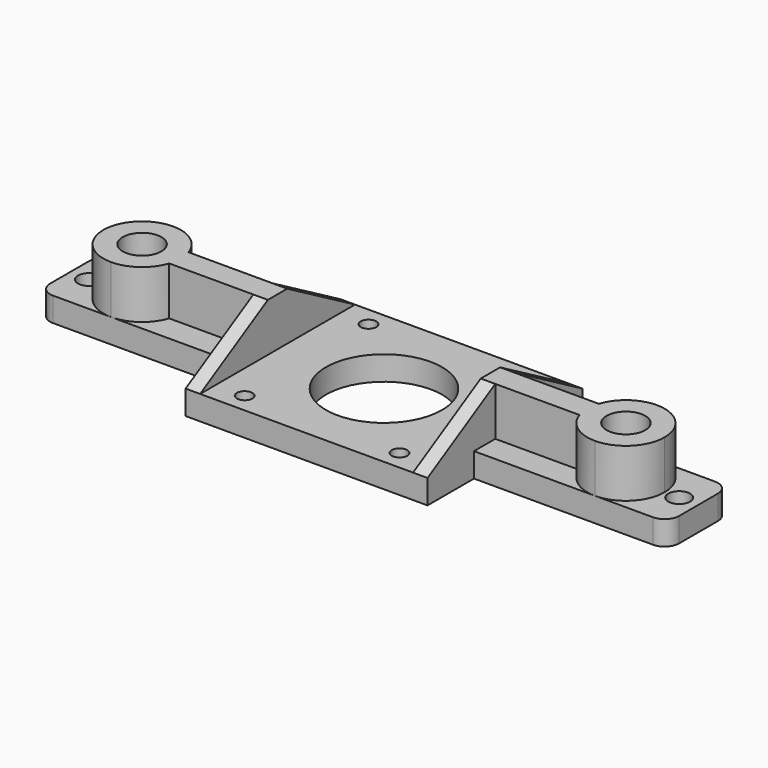
from build123d import *

# Parameters (mm, degrees)
F1_DEPTH = 5
F0_R     = 2.25
F0_W     = 44
F0_H     = 40
F0_R_2   = 1.6
F0_R_3   = 12
F0_R_4   = 4
F2_DEPTH = 15
F3_SIZE2 = 10
F3_SIZE  = 17.5
F4_SIZE2 = 10
F4_SIZE  = 17.5


with BuildPart() as f1:
    # F0 (on Top) → F1 (new body)
    with BuildSketch(Plane.XY):
        with BuildLine():
            Line((4.8406173328, -2.5), (-12.5600405904, -2.5))
            ThreePointArc((-12.5600405904, -2.5), (-15.4689669073, -6.4807406984), (-20.1593826672, -8))
            Line((-20.1593826672, -8), (4.8406173328, -8))
            Line((4.8406173328, -8), (4.8406173328, -2.5))
        make_face()
    extrude(amount=F1_DEPTH)



with BuildPart() as f1b:
    # F0 (on Top) → F1, piece 2 (new body)
    with BuildSketch(Plane.XY):
        with BuildLine():
            ThreePointArc((-20.1593826672, 8), (-15.4689669073, 6.4807406984), (-12.5600405904, 2.5))
            Line((-12.5600405904, 2.5), (4.8406173328, 2.5))
            Line((4.8406173328, 2.5), (4.8406173328, 8))
            Line((4.8406173328, 8), (-20.1593826672, 8))
        make_face()
    extrude(amount=F1_DEPTH)


with BuildPart() as f1c:
    # F0 (on Top) → F1, piece 3 (new body)
    with BuildSketch(Plane.XY):
        with BuildLine():
            ThreePointArc((-20.1593826672, -8), (-28.1593826672, 0), (-20.1593826672, 8))
            Line((-20.1593826672, 8), (-32.1593826672, 8))
            ThreePointArc((-32.1593826672, 8), (-34.2807030107, 7.1213203436), (-35.1593826672, 5))
            Line((-35.1593826672, 5), (-35.1593826672, -5))
            ThreePointArc((-35.1593826672, -5), (-34.2807030107, -7.1213203436), (-32.1593826672, -8))
            Line((-32.1593826672, -8), (-20.1593826672, -8))
        make_face()
        with Locations((-31.1593826672, 0)):
            Circle(F0_R, mode=Mode.SUBTRACT)
    extrude(amount=F1_DEPTH)


with BuildPart() as f1d:
    # F0 (on Top) → F1, piece 4 (new body)
    with BuildSketch(Plane.XY):
        with BuildLine():
            Line((91.8406173328, 8), (79.8406173328, 8))
            ThreePointArc((79.8406173328, 8), (85.4974715823, 5.6568542495), (87.8406173328, 0))
            ThreePointArc((87.8406173328, 0), (85.4974715823, -5.6568542495), (79.8406173328, -8))
            Line((79.8406173328, -8), (91.8406173328, -8))
            ThreePointArc((91.8406173328, -8), (93.9619376764, -7.1213203436), (94.8406173328, -5))
            Line((94.8406173328, -5), (94.8406173328, 5))
            ThreePointArc((94.8406173328, 5), (93.9619376764, 7.1213203436), (91.8406173328, 8))
        make_face()
        with Locations((90.8406173328, 0)):
            Circle(F0_R, mode=Mode.SUBTRACT)
    extrude(amount=F1_DEPTH)


with BuildPart() as f1e:
    # F0 (on Top) → F1, piece 5 (new body)
    with BuildSketch(Plane.XY):
        with BuildLine():
            Line((54.8406173328, -2.5), (54.8406173328, -8))
            Line((54.8406173328, -8), (79.8406173328, -8))
            ThreePointArc((79.8406173328, -8), (75.150201573, -6.4807406984), (72.2412752561, -2.5))
            Line((72.2412752561, -2.5), (54.8406173328, -2.5))
        make_face()
    extrude(amount=F1_DEPTH)


with BuildPart() as f1f:
    # F0 (on Top) → F1, piece 6 (new body)
    with BuildSketch(Plane.XY):
        with BuildLine():
            Line((79.8406173328, 8), (54.8406173328, 8))
            Line((54.8406173328, 8), (54.8406173328, 2.5))
            Line((54.8406173328, 2.5), (72.2412752561, 2.5))
            ThreePointArc((72.2412752561, 2.5), (75.150201573, 6.4807406984), (79.8406173328, 8))
        make_face()
    extrude(amount=F1_DEPTH)


with BuildPart() as f1g:
    # F0 (on Top) → F1, piece 7 (new body)
    with BuildSketch(Plane.XY):
        with Locations((29.8406173328, 0)):
            Rectangle(F0_W, F0_H)
        with Locations((13.8406173328, -16)):
            Circle(F0_R_2, mode=Mode.SUBTRACT)
        with Locations((45.8406173328, -16)):
            Circle(F0_R_2, mode=Mode.SUBTRACT)
        with Locations((13.8406173328, 16)):
            Circle(F0_R_2, mode=Mode.SUBTRACT)
        with Locations((29.8406173328, 0)):
            Circle(F0_R_3, mode=Mode.SUBTRACT)
        with Locations((45.8406173328, 16)):
            Circle(F0_R_2, mode=Mode.SUBTRACT)
    extrude(amount=F1_DEPTH)


with BuildPart() as f1_1:
    add(f1.part)

    add(f1b.part)  # F2 merges F1b

    add(f1c.part)  # F2 merges F1c

    add(f1d.part)  # F2 merges F1d

    add(f1e.part)  # F2 merges F1e

    add(f1f.part)  # F2 merges F1f

    add(f1g.part)  # F2 merges F1g
    # F0 (on Top) → F2 (join)
    with BuildSketch(Plane.XY):
        with BuildLine():
            ThreePointArc((-12.5600405904, -2.5), (-12.2601821818, -1.2659509046), (-12.1593826672, 0))
            ThreePointArc((-12.1593826672, 0), (-12.2601821818, 1.2659509046), (-12.5600405904, 2.5))
            ThreePointArc((-12.5600405904, 2.5), (-15.4689669073, 6.4807406984), (-20.1593826672, 8))
            ThreePointArc((-20.1593826672, 8), (-28.1593826672, 0), (-20.1593826672, -8))
            ThreePointArc((-20.1593826672, -8), (-15.4689669073, -6.4807406984), (-12.5600405904, -2.5))
        make_face()
        with Locations((-20.1593826672, 0)):
            Circle(F0_R_4, mode=Mode.SUBTRACT)
        with BuildLine():
            ThreePointArc((87.8406173328, 0), (85.4974715823, 5.6568542495), (79.8406173328, 8))
            ThreePointArc((79.8406173328, 8), (75.150201573, 6.4807406984), (72.2412752561, 2.5))
            ThreePointArc((72.2412752561, 2.5), (71.8406173328, 0), (72.2412752561, -2.5))
            ThreePointArc((72.2412752561, -2.5), (75.150201573, -6.4807406984), (79.8406173328, -8))
            ThreePointArc((79.8406173328, -8), (85.4974715823, -5.6568542495), (87.8406173328, 0))
        make_face()
        with Locations((79.8406173328, 0)):
            Circle(F0_R_4, mode=Mode.SUBTRACT)
        with BuildLine():
            ThreePointArc((-12.5600405904, 2.5), (-12.2601821818, 1.2659509046), (-12.1593826672, 0))
            ThreePointArc((-12.1593826672, 0), (-12.2601821818, -1.2659509046), (-12.5600405904, -2.5))
            Line((-12.5600405904, -2.5), (4.8406173328, -2.5))
            Line((4.8406173328, -2.5), (4.8406173328, -8))
            Line((4.8406173328, -8), (4.8406173328, -20))
            Line((4.8406173328, -20), (7.8406173328, -20))
            Line((7.8406173328, -20), (7.8406173328, 20))
            Line((7.8406173328, 20), (4.8406173328, 20))
            Line((4.8406173328, 20), (4.8406173328, 8))
            Line((4.8406173328, 8), (4.8406173328, 2.5))
            Line((4.8406173328, 2.5), (-12.5600405904, 2.5))
        make_face()
        with BuildLine():
            Line((54.8406173328, 20), (51.8406173328, 20))
            Line((51.8406173328, 20), (51.8406173328, -20))
            Line((51.8406173328, -20), (54.8406173328, -20))
            Line((54.8406173328, -20), (54.8406173328, -8))
            Line((54.8406173328, -8), (54.8406173328, -2.5))
            Line((54.8406173328, -2.5), (72.2412752561, -2.5))
            ThreePointArc((72.2412752561, -2.5), (71.8406173328, 0), (72.2412752561, 2.5))
            Line((72.2412752561, 2.5), (54.8406173328, 2.5))
            Line((54.8406173328, 2.5), (54.8406173328, 8))
            Line((54.8406173328, 8), (54.8406173328, 20))
        make_face()
    extrude(amount=F2_DEPTH)

    # F3
    f3_edges = [f1_1.edges().sort_by_distance(p)[0] for p in [
        (6.340617, -20, 15),
        (6.340617, 20, 15),
    ]]
    f3_side = f1_1.faces().sort_by_distance((-7.289097, 0, 15))[0]
    chamfer(f3_edges, length=F3_SIZE, length2=F3_SIZE2, reference=f3_side)

    # F4
    f4_edges = [f1_1.edges().sort_by_distance(p)[0] for p in [
        (53.340617, -20, 15),
        (53.340617, 20, 15),
    ]]
    f4_side = f1_1.faces().sort_by_distance((66.970331, 0, 15))[0]
    chamfer(f4_edges, length=F4_SIZE, length2=F4_SIZE2, reference=f4_side)


solid = f1_1.part
